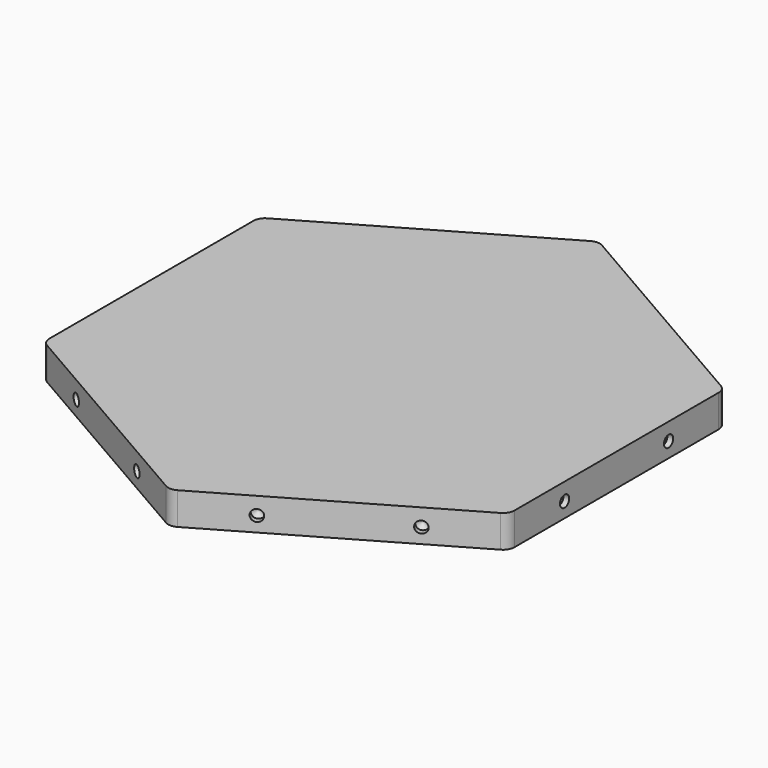
from build123d import *

# Parameters (mm, degrees)
F1_DEPTH       = 6
F3_D           = 2
F3_DEPTH       = 1
F3_TIP         = 0.600860619
F9_D           = 2
F9_DEPTH       = 1
F9_TIP         = 0.600860619
F9_ON_F4_D     = 2
F9_ON_F4_DEPTH = 1
F9_ON_F4_TIP   = 0.600860619
F9_ON_F5_D     = 2
F9_ON_F5_DEPTH = 1
F9_ON_F5_TIP   = 0.600860619
F9_ON_F6_D     = 2
F9_ON_F6_DEPTH = 1
F9_ON_F6_TIP   = 0.600860619
F9_ON_F7_D     = 2
F9_ON_F7_DEPTH = 1
F9_ON_F7_TIP   = 0.600860619
F10_R          = 2
F12_DEPTH      = 0.4
F13_R          = 1


with BuildPart() as f1:
    # F0 (on Top) → F1 (new body)
    with BuildSketch(Plane.XY):
        Polygon((40.270181276, 23.25), (0, 46.5), (-40.270181276, 23.25), (-40.270181276, -23.25), (0, -46.5), (40.270181276, -23.25), align=None)
    extrude(amount=F1_DEPTH)

    # F3
    with Locations(Plane(origin=(-40.270181276, 0, 0), x_dir=(0, -1, 0), z_dir=(-1, 0, 0))):
        with Locations((-11.25, 3), (11.25, 3)):
            Hole(F3_D / 2, depth=F3_DEPTH)
            with Locations((0, 0, -(F3_DEPTH + F3_TIP / 2))):  # 118° drill point
                Cone(0, F3_D / 2, F3_TIP, mode=Mode.SUBTRACT)

    # F9
    with Locations(Plane(origin=(-20.135090638, 34.875, 0), x_dir=(-0.8660254038, -0.5, 0), z_dir=(-0.5, 0.8660254038, 0))):
        with Locations((-11.25, 3), (11.25, 3)):
            Hole(F9_D / 2, depth=F9_DEPTH)
            with Locations((0, 0, -(F9_DEPTH + F9_TIP / 2))):  # 118° drill point
                Cone(0, F9_D / 2, F9_TIP, mode=Mode.SUBTRACT)

    # F9 on F4
    with Locations(Plane(origin=(20.135090638, 34.875, 0), x_dir=(-0.8660254038, 0.5, 0), z_dir=(0.5, 0.8660254038, 0))):
        with Locations((11.25, 3), (-11.25, 3)):
            Hole(F9_ON_F4_D / 2, depth=F9_ON_F4_DEPTH)
            with Locations((0, 0, -(F9_ON_F4_DEPTH + F9_ON_F4_TIP / 2))):  # 118° drill point
                Cone(0, F9_ON_F4_D / 2, F9_ON_F4_TIP, mode=Mode.SUBTRACT)

    # F9 on F5
    with Locations(Plane.YZ.offset(40.270181276)):
        with Locations((11.25, 3), (-11.25, 3)):
            Hole(F9_ON_F5_D / 2, depth=F9_ON_F5_DEPTH)
            with Locations((0, 0, -(F9_ON_F5_DEPTH + F9_ON_F5_TIP / 2))):  # 118° drill point
                Cone(0, F9_ON_F5_D / 2, F9_ON_F5_TIP, mode=Mode.SUBTRACT)

    # F9 on F6
    with Locations(Plane(origin=(20.135090638, -34.875, 0), x_dir=(0.8660254038, 0.5, 0), z_dir=(0.5, -0.8660254038, 0))):
        with Locations((11.25, 3), (-11.25, 3)):
            Hole(F9_ON_F6_D / 2, depth=F9_ON_F6_DEPTH)
            with Locations((0, 0, -(F9_ON_F6_DEPTH + F9_ON_F6_TIP / 2))):  # 118° drill point
                Cone(0, F9_ON_F6_D / 2, F9_ON_F6_TIP, mode=Mode.SUBTRACT)

    # F9 on F7
    with Locations(Plane(origin=(-20.135090638, -34.875, 0), x_dir=(0.8660254038, -0.5, 0), z_dir=(-0.5, -0.8660254038, 0))):
        with Locations((-11.25, 3), (11.25, 3)):
            Hole(F9_ON_F7_D / 2, depth=F9_ON_F7_DEPTH)
            with Locations((0, 0, -(F9_ON_F7_DEPTH + F9_ON_F7_TIP / 2))):  # 118° drill point
                Cone(0, F9_ON_F7_D / 2, F9_ON_F7_TIP, mode=Mode.SUBTRACT)

    # F10
    f10_edges = [f1.edges().sort_by_distance(p)[0] for p in [
        (-40.270181, 23.25, 3),
        (0, 46.5, 3),
        (40.270181, 23.25, 3),
        (40.270181, -23.25, 3),
        (-40.270181, -23.25, 3),
        (0, -46.5, 3),
    ]]
    fillet(f10_edges, radius=F10_R)

    # F11 (on Top) → F12 (cut)
    with BuildSketch(Plane.XY):
        with BuildLine():
            ThreePointArc((-7.7942286341, -42), (-2.3293714059, -55.1933324366), (9, -46.5))
            ThreePointArc((9, -46.5), (8.6933324366, -44.1706285941), (7.7942286341, -42))
            Line((7.7942286341, -42), (2.8145825623, -44.875))
            Line((2.8145825623, -44.875), (1.0645825623, -41.8439110868))
            Line((1.0645825623, -41.8439110868), (5.4307033082, -39.3231300988))
            ThreePointArc((5.4307033082, -39.3231300988), (0, -37.5), (-5.4307033082, -39.3231300988))
            Line((-5.4307033082, -39.3231300988), (-1.0645825623, -41.8439110868))
            Line((-1.0645825623, -41.8439110868), (-2.8145825623, -44.875))
            Line((-2.8145825623, -44.875), (-7.7942286341, -42))
        make_face()
        with BuildLine():
            Line((2.8145825623, -44.875), (7.7942286341, -42))
            ThreePointArc((7.7942286341, -42), (6.7465631499, -40.5431647946), (5.4307033082, -39.3231300988))
            Line((5.4307033082, -39.3231300988), (1.0645825623, -41.8439110868))
            Line((1.0645825623, -41.8439110868), (2.8145825623, -44.875))
        make_face()
        with BuildLine():
            ThreePointArc((5.4307033082, -39.3231300988), (6.7465631499, -40.5431647946), (7.7942286341, -42))
            Line((7.7942286341, -42), (32.4759526419, -27.75))
            ThreePointArc((32.4759526419, -27.75), (31.738129087, -26.1142774734), (31.3394779678, -24.3646920747))
            Line((31.3394779678, -24.3646920747), (5.4307033082, -39.3231300988))
        make_face()
        with BuildLine():
            Line((-32.4759526419, -27.75), (-7.7942286341, -42))
            ThreePointArc((-7.7942286341, -42), (-6.7465631499, -40.5431647946), (-5.4307033082, -39.3231300988))
            Line((-5.4307033082, -39.3231300988), (-31.3394779678, -24.3646920747))
            ThreePointArc((-31.3394779678, -24.3646920747), (-31.738129087, -26.1142774734), (-32.4759526419, -27.75))
        make_face()
        with BuildLine():
            ThreePointArc((-5.4307033082, -39.3231300988), (-6.7465631499, -40.5431647946), (-7.7942286341, -42))
            Line((-7.7942286341, -42), (-2.8145825623, -44.875))
            Line((-2.8145825623, -44.875), (-1.0645825623, -41.8439110868))
            Line((-1.0645825623, -41.8439110868), (-5.4307033082, -39.3231300988))
        make_face()
        with BuildLine():
            Line((37.4555987137, -24.875), (32.4759526419, -27.75))
            ThreePointArc((32.4759526419, -27.75), (42.5995526819, -31.9433324366), (49.270181276, -23.25))
            ThreePointArc((49.270181276, -23.25), (46.6341423067, -16.8860389693), (40.270181276, -14.25))
            Line((40.270181276, -14.25), (40.270181276, -20))
            Line((40.270181276, -20), (36.770181276, -20))
            Line((36.770181276, -20), (36.770181276, -14.9584380241))
            ThreePointArc((36.770181276, -14.9584380241), (32.4759526419, -18.75), (31.3394779678, -24.3646920747))
            Line((31.3394779678, -24.3646920747), (35.7055987137, -21.8439110868))
            Line((35.7055987137, -21.8439110868), (37.4555987137, -24.875))
        make_face()
        with BuildLine():
            ThreePointArc((31.3394779678, -24.3646920747), (31.738129087, -26.1142774734), (32.4759526419, -27.75))
            Line((32.4759526419, -27.75), (37.4555987137, -24.875))
            Line((37.4555987137, -24.875), (35.7055987137, -21.8439110868))
            Line((35.7055987137, -21.8439110868), (31.3394779678, -24.3646920747))
        make_face()
        with BuildLine():
            Line((-37.4555987137, -24.875), (-32.4759526419, -27.75))
            ThreePointArc((-32.4759526419, -27.75), (-31.738129087, -26.1142774734), (-31.3394779678, -24.3646920747))
            Line((-31.3394779678, -24.3646920747), (-35.7055987137, -21.8439110868))
            Line((-35.7055987137, -21.8439110868), (-37.4555987137, -24.875))
        make_face()
        with BuildLine():
            ThreePointArc((-40.270181276, -14.25), (-48.06440991, -27.75), (-32.4759526419, -27.75))
            Line((-32.4759526419, -27.75), (-37.4555987137, -24.875))
            Line((-37.4555987137, -24.875), (-35.7055987137, -21.8439110868))
            Line((-35.7055987137, -21.8439110868), (-31.3394779678, -24.3646920747))
            ThreePointArc((-31.3394779678, -24.3646920747), (-31.2875221548, -23.8084219849), (-31.270181276, -23.25))
            ThreePointArc((-31.270181276, -23.25), (-32.770181276, -18.2750628145), (-36.770181276, -14.9584380241))
            Line((-36.770181276, -14.9584380241), (-36.770181276, -20))
            Line((-36.770181276, -20), (-40.270181276, -20))
            Line((-40.270181276, -20), (-40.270181276, -14.25))
        make_face()
        with BuildLine():
            Line((-40.270181276, 14.25), (-40.270181276, -14.25))
            ThreePointArc((-40.270181276, -14.25), (-38.4846922369, -14.4288873212), (-36.770181276, -14.9584380241))
            Line((-36.770181276, -14.9584380241), (-36.770181276, 14.9584380241))
            ThreePointArc((-36.770181276, 14.9584380241), (-38.4846922369, 14.4288873212), (-40.270181276, 14.25))
        make_face()
        with BuildLine():
            ThreePointArc((-36.770181276, -14.9584380241), (-38.4846922369, -14.4288873212), (-40.270181276, -14.25))
            Line((-40.270181276, -14.25), (-40.270181276, -20))
            Line((-40.270181276, -20), (-36.770181276, -20))
            Line((-36.770181276, -20), (-36.770181276, -14.9584380241))
        make_face()
        with BuildLine():
            Line((36.770181276, 14.9584380241), (36.770181276, -14.9584380241))
            ThreePointArc((36.770181276, -14.9584380241), (38.4846922369, -14.4288873212), (40.270181276, -14.25))
            Line((40.270181276, -14.25), (40.270181276, 14.25))
            ThreePointArc((40.270181276, 14.25), (38.4846922369, 14.4288873212), (36.770181276, 14.9584380241))
        make_face()
        with BuildLine():
            ThreePointArc((40.270181276, -14.25), (38.4846922369, -14.4288873212), (36.770181276, -14.9584380241))
            Line((36.770181276, -14.9584380241), (36.770181276, -20))
            Line((36.770181276, -20), (40.270181276, -20))
            Line((40.270181276, -20), (40.270181276, -14.25))
        make_face()
        with BuildLine():
            Line((-40.270181276, 20), (-40.270181276, 14.25))
            ThreePointArc((-40.270181276, 14.25), (-38.4846922369, 14.4288873212), (-36.770181276, 14.9584380241))
            Line((-36.770181276, 14.9584380241), (-36.770181276, 20))
            Line((-36.770181276, 20), (-40.270181276, 20))
        make_face()
        with BuildLine():
            ThreePointArc((-32.4759526419, 27.75), (-48.06440991, 27.75), (-40.270181276, 14.25))
            Line((-40.270181276, 14.25), (-40.270181276, 20))
            Line((-40.270181276, 20), (-36.770181276, 20))
            Line((-36.770181276, 20), (-36.770181276, 14.9584380241))
            ThreePointArc((-36.770181276, 14.9584380241), (-32.770181276, 18.2750628145), (-31.270181276, 23.25))
            ThreePointArc((-31.270181276, 23.25), (-31.2875221548, 23.8084219849), (-31.3394779678, 24.3646920747))
            Line((-31.3394779678, 24.3646920747), (-35.7055987137, 21.8439110868))
            Line((-35.7055987137, 21.8439110868), (-37.4555987137, 24.875))
            Line((-37.4555987137, 24.875), (-32.4759526419, 27.75))
        make_face()
        with BuildLine():
            Line((36.770181276, 20), (36.770181276, 14.9584380241))
            ThreePointArc((36.770181276, 14.9584380241), (38.4846922369, 14.4288873212), (40.270181276, 14.25))
            Line((40.270181276, 14.25), (40.270181276, 20))
            Line((40.270181276, 20), (36.770181276, 20))
        make_face()
        with BuildLine():
            ThreePointArc((31.3394779678, 24.3646920747), (32.4759526419, 18.75), (36.770181276, 14.9584380241))
            Line((36.770181276, 14.9584380241), (36.770181276, 20))
            Line((36.770181276, 20), (40.270181276, 20))
            Line((40.270181276, 20), (40.270181276, 14.25))
            ThreePointArc((40.270181276, 14.25), (46.6341423067, 16.8860389693), (49.270181276, 23.25))
            ThreePointArc((49.270181276, 23.25), (42.5995526819, 31.9433324366), (32.4759526419, 27.75))
            Line((32.4759526419, 27.75), (37.4555987137, 24.875))
            Line((37.4555987137, 24.875), (35.7055987137, 21.8439110868))
            Line((35.7055987137, 21.8439110868), (31.3394779678, 24.3646920747))
        make_face()
        with BuildLine():
            Line((-7.7942286341, 42), (-32.4759526419, 27.75))
            ThreePointArc((-32.4759526419, 27.75), (-31.738129087, 26.1142774734), (-31.3394779678, 24.3646920747))
            Line((-31.3394779678, 24.3646920747), (-5.4307033082, 39.3231300988))
            ThreePointArc((-5.4307033082, 39.3231300988), (-6.7465631499, 40.5431647946), (-7.7942286341, 42))
        make_face()
        with BuildLine():
            ThreePointArc((-31.3394779678, 24.3646920747), (-31.738129087, 26.1142774734), (-32.4759526419, 27.75))
            Line((-32.4759526419, 27.75), (-37.4555987137, 24.875))
            Line((-37.4555987137, 24.875), (-35.7055987137, 21.8439110868))
            Line((-35.7055987137, 21.8439110868), (-31.3394779678, 24.3646920747))
        make_face()
        with BuildLine():
            Line((5.4307033082, 39.3231300988), (31.3394779678, 24.3646920747))
            ThreePointArc((31.3394779678, 24.3646920747), (31.738129087, 26.1142774734), (32.4759526419, 27.75))
            Line((32.4759526419, 27.75), (7.7942286341, 42))
            ThreePointArc((7.7942286341, 42), (6.7465631499, 40.5431647946), (5.4307033082, 39.3231300988))
        make_face()
        with BuildLine():
            ThreePointArc((32.4759526419, 27.75), (31.738129087, 26.1142774734), (31.3394779678, 24.3646920747))
            Line((31.3394779678, 24.3646920747), (35.7055987137, 21.8439110868))
            Line((35.7055987137, 21.8439110868), (37.4555987137, 24.875))
            Line((37.4555987137, 24.875), (32.4759526419, 27.75))
        make_face()
        with BuildLine():
            Line((-2.8145825623, 44.875), (-7.7942286341, 42))
            ThreePointArc((-7.7942286341, 42), (-6.7465631499, 40.5431647946), (-5.4307033082, 39.3231300988))
            Line((-5.4307033082, 39.3231300988), (-1.0645825623, 41.8439110868))
            Line((-1.0645825623, 41.8439110868), (-2.8145825623, 44.875))
        make_face()
        with BuildLine():
            ThreePointArc((9, 46.5), (-2.3293714059, 55.1933324366), (-7.7942286341, 42))
            Line((-7.7942286341, 42), (-2.8145825623, 44.875))
            Line((-2.8145825623, 44.875), (-1.0645825623, 41.8439110868))
            Line((-1.0645825623, 41.8439110868), (-5.4307033082, 39.3231300988))
            ThreePointArc((-5.4307033082, 39.3231300988), (0, 37.5), (5.4307033082, 39.3231300988))
            Line((5.4307033082, 39.3231300988), (1.0645825623, 41.8439110868))
            Line((1.0645825623, 41.8439110868), (2.8145825623, 44.875))
            Line((2.8145825623, 44.875), (7.7942286341, 42))
            ThreePointArc((7.7942286341, 42), (8.6933324366, 44.1706285941), (9, 46.5))
        make_face()
        with BuildLine():
            Line((1.0645825623, 41.8439110868), (5.4307033082, 39.3231300988))
            ThreePointArc((5.4307033082, 39.3231300988), (6.7465631499, 40.5431647946), (7.7942286341, 42))
            Line((7.7942286341, 42), (2.8145825623, 44.875))
            Line((2.8145825623, 44.875), (1.0645825623, 41.8439110868))
        make_face()
    extrude(amount=F12_DEPTH, mode=Mode.SUBTRACT)

    # F13
    f13_edges = [f1.edges().sort_by_distance(p)[0] for p in [
        (36.770181, 14.958438, 0.2),
        (36.770181, -14.958438, 0.2),
        (31.339478, -24.364692, 0.2),
        (5.430703, -39.32313, 0.2),
        (-5.430703, -39.32313, 0.2),
        (-31.339478, -24.364692, 0.2),
        (-36.770181, -14.958438, 0.2),
        (-36.770181, 14.958438, 0.2),
        (-31.339478, 24.364692, 0.2),
        (-5.430703, 39.32313, 0.2),
        (5.430703, 39.32313, 0.2),
        (31.339478, 24.364692, 0.2),
    ]]
    fillet(f13_edges, radius=F13_R)


solid = f1.part
